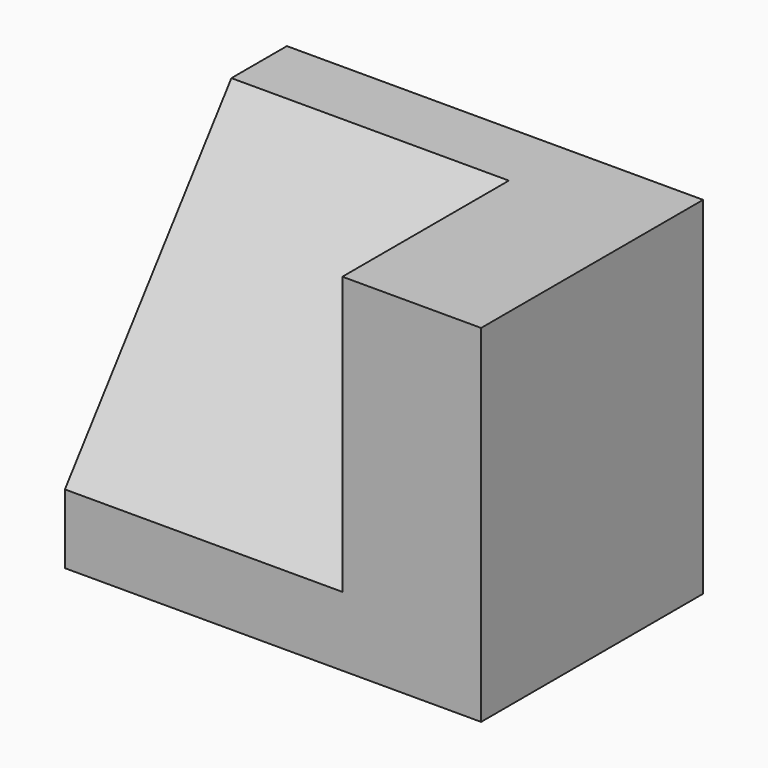
from build123d import *

# Parameters (mm, degrees)
F0_W     = 25.4
F0_H     = 31.75
F1_DEPTH = 38.1
F3_DEPTH = 25.4


with BuildPart() as f1:
    # F0 (on Right) → F1 (new body)
    with BuildSketch(Plane.YZ):
        with Locations((12.7, 15.875)):
            Rectangle(F0_W, F0_H)
    extrude(amount=F1_DEPTH)

    # F2 (on Right) → F3 (cut)
    with BuildSketch(Plane.YZ):
        Polygon((0, 31.75), (0, 6.35), (19.05, 31.75), align=None)
    extrude(amount=F3_DEPTH, mode=Mode.SUBTRACT)


solid = f1.part
